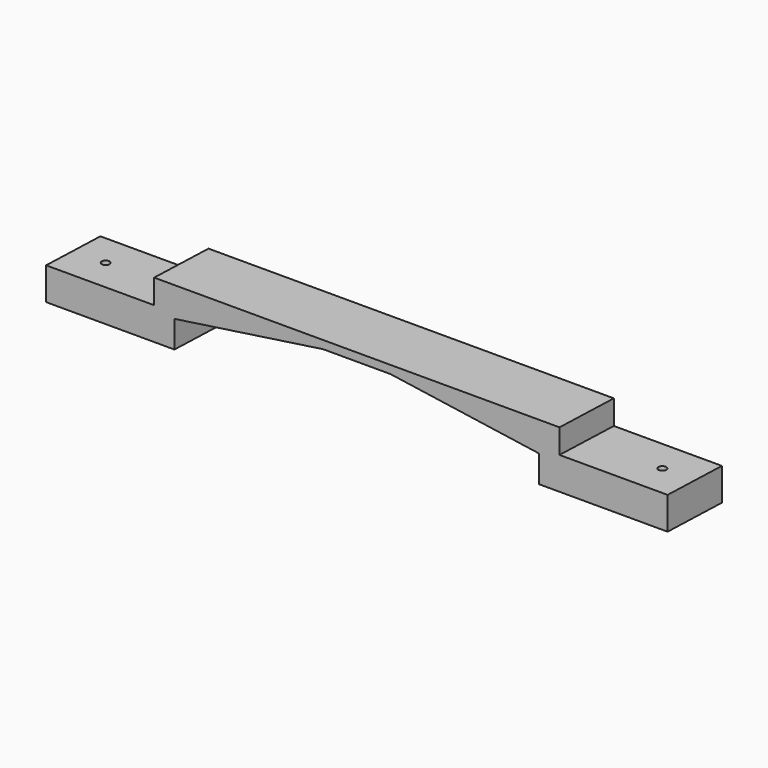
from build123d import *

# Parameters (mm, degrees)
F3_R     = 1.45
F4_DEPTH = 12


with BuildPart() as f2:
    # F2: sweep along a path in F1
    with BuildLine(Plane.XY) as f2_path:
        Line((-39.078693, 23.98231), (-40, 0))
    # F0 (on Front) → F2 (sweep)
    with BuildSketch(Plane.XZ):
        Polygon((0, 0), (-40, 0), (-40, -12), (7.5, -12), (7.5, -2), (62.5, 6), (87.5, 6), (142.5, -2), (142.5, -12), (190, -12), (190, 0), (150, 0), (150, 9), (0, 9), align=None)
    sweep(path=f2_path.line)

    # F3 (on face) → F4 (cut, through all)
    with BuildSketch(Plane.XY):
        with Locations((178.451802, 11.991155)):
            Circle(F3_R)
        with Locations((-27.530495, 11.991155)):
            Circle(F3_R)
    extrude(amount=-F4_DEPTH, mode=Mode.SUBTRACT)


solid = f2.part
